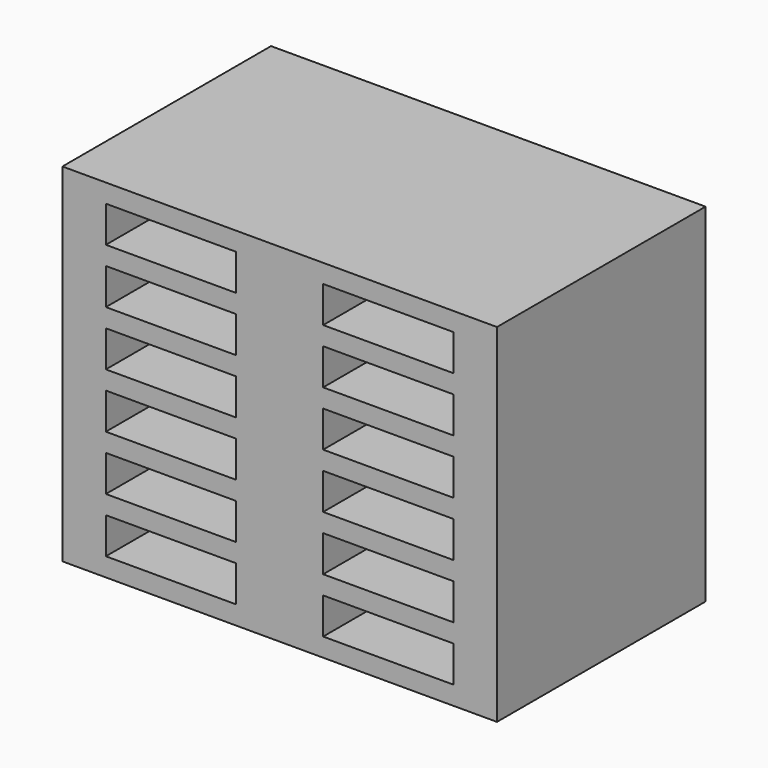
from build123d import *

# Parameters (mm, degrees)
F0_W     = 1524
F0_H     = 1219.2
F1_DEPTH = 914.4
F2_W     = 457.2
F2_H     = 127
F3_DEPTH = 457.2


with BuildPart() as f1:
    # F0 (on Front) → F1 (new body)
    with BuildSketch(Plane.XZ):
        Rectangle(F0_W, F0_H)
    extrude(amount=F1_DEPTH)

    # F2 (on face) → F3 (cut)
    with BuildSketch(Plane.XZ.offset(914.4)):
        with Locations((-381, 480.822)):
            Rectangle(F2_W, F2_H)
        with Locations((381, 480.822)):
            Rectangle(F2_W, F2_H)
        with Locations((-381, 288.507729)):
            Rectangle(F2_W, F2_H)
        with Locations((381, 288.507729)):
            Rectangle(F2_W, F2_H)
        with Locations((-381, 96.193458)):
            Rectangle(F2_W, F2_H)
        with Locations((381, 96.193458)):
            Rectangle(F2_W, F2_H)
        with Locations((-381, -96.120814)):
            Rectangle(F2_W, F2_H)
        with Locations((381, -96.120814)):
            Rectangle(F2_W, F2_H)
        with Locations((-381, -288.435085)):
            Rectangle(F2_W, F2_H)
        with Locations((381, -288.435085)):
            Rectangle(F2_W, F2_H)
        with Locations((-381, -480.749356)):
            Rectangle(F2_W, F2_H)
        with Locations((381, -480.749356)):
            Rectangle(F2_W, F2_H)
    extrude(amount=-F3_DEPTH, mode=Mode.SUBTRACT)


solid = f1.part
